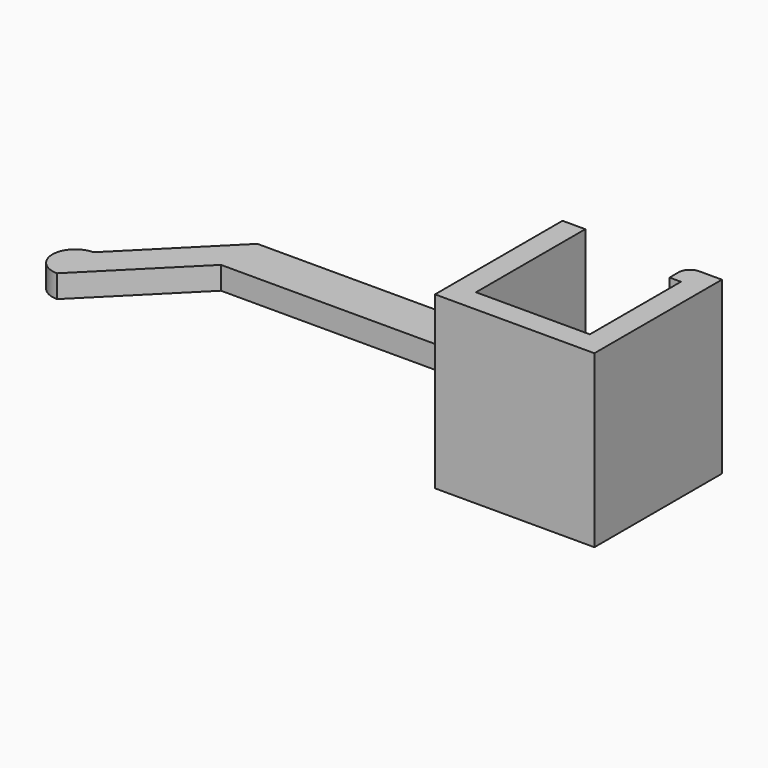
from build123d import *

# Parameters (mm, degrees)
PAD_DEPTH    = 7.5
SKETCH001_W  = 4
SKETCH001_H  = 2
PAD001_DEPTH = 24
PAD002_DEPTH = 1


with BuildPart() as part:
    # Sketch → Pad (new body, symmetric)
    with BuildSketch(Plane.XY):
        with BuildLine():
            Line((0, 0), (10, 0))
            Line((10, 0), (10, 10))
            Line((10, 10), (9, 10))
            Line((9, 11), (9, 10))
            ThreePointArc((10, 12), (9.292893, 11.707107), (9, 11))
            Line((10, 12), (12, 12))
            Line((12, 12), (12, -2))
            Line((12, -2), (-2, -2))
            Line((-2, 12), (-2, -2))
            Line((0, 12), (-2, 12))
            Line((0, 0), (0, 12))
        make_face()
    extrude(amount=PAD_DEPTH, both=True)

    # Sketch001 → Pad001 (join)
    with BuildSketch(Plane.YZ):
        with Locations((4, 0)):
            Rectangle(SKETCH001_W, SKETCH001_H)
    extrude(amount=-PAD001_DEPTH)

    # Sketch002 → Pad002 (join, symmetric)
    with BuildSketch(Plane.XY):
        with BuildLine():
            Line((-24, 6), (-32, -2))
            ThreePointArc((-32, -2), (-34, -4), (-32, -6))
            Line((-32, -6), (-24, 2))
            Line((-24, 2), (-24, 6))
        make_face()
    extrude(amount=PAD002_DEPTH, both=True)


solid = part.part
